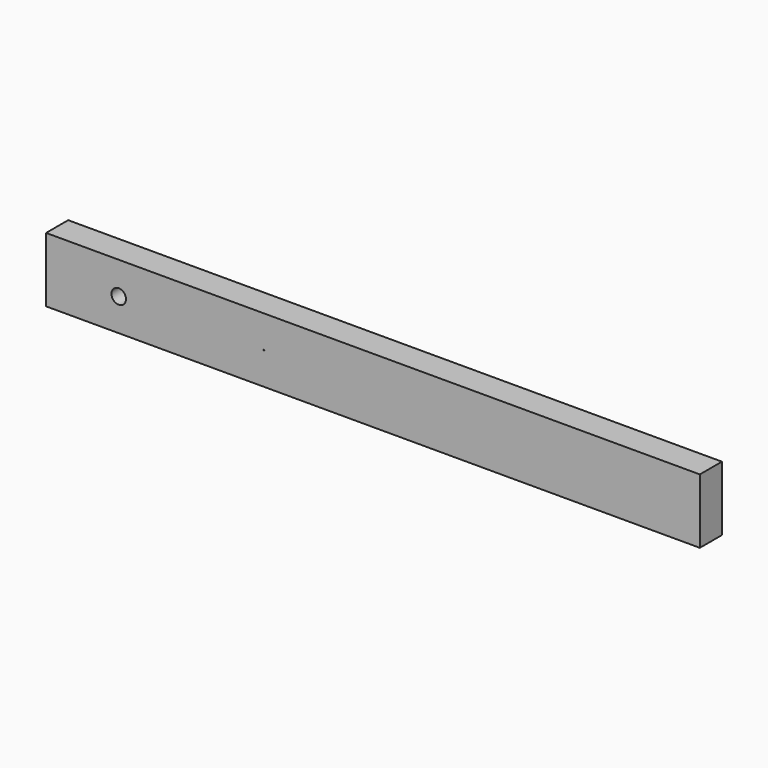
from build123d import *

# Parameters (mm, degrees)
F0_W     = 900
F0_H     = 89
F1_DEPTH = 38
F3_D     = 20
F5_D     = 1


with BuildPart() as f1:
    # F0 (on Front) → F1 (new body)
    with BuildSketch(Plane.XZ):
        Rectangle(F0_W, F0_H)
    extrude(amount=F1_DEPTH)

    # F3 (through all)
    with Locations(Plane.XZ.offset(38)):
        with Locations((-350, 0)):
            Hole(F3_D / 2)

    # F5 (through all)
    with Locations(Plane.XZ.offset(38)):
        with Locations((-150, 0)):
            Hole(F5_D / 2)


solid = f1.part
